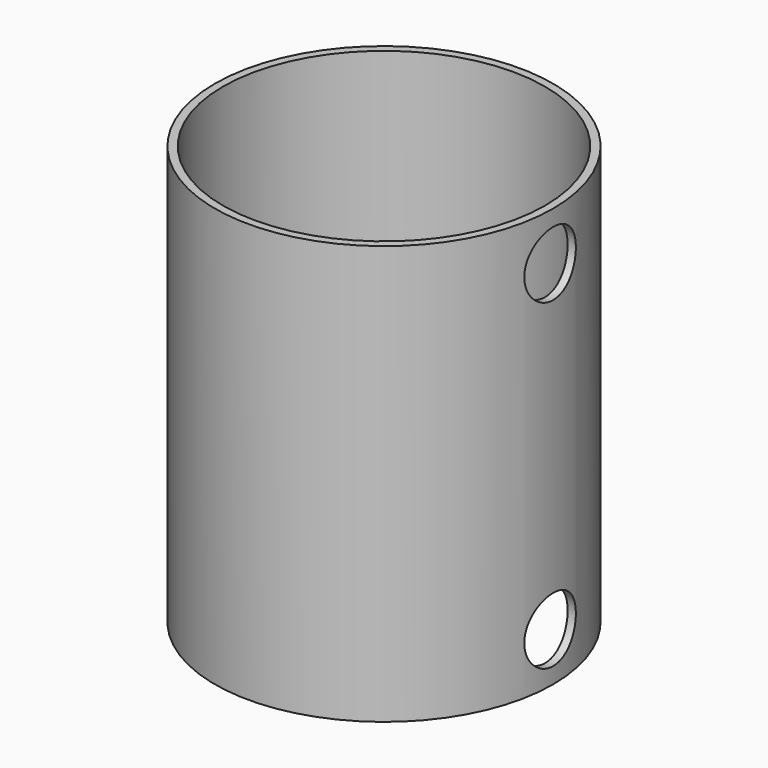
from build123d import *

# Parameters (mm, degrees)
F0_R     = 133.35
F0_R_2   = 127
F1_DEPTH = 330.2
F3_R     = 25.4
F4_DEPTH = 508


with BuildPart() as f1:
    # F0 (on Top) → F1 (new body)
    with BuildSketch(Plane.XY):
        Circle(F0_R)
        Circle(F0_R_2, mode=Mode.SUBTRACT)
    extrude(amount=F1_DEPTH)

    # F3 (on Right) → F4 (cut)
    with BuildSketch(Plane.YZ):
        with Locations((0, 38.1)):
            Circle(F3_R)
        with Locations((0, 292.1)):
            Circle(F3_R)
    extrude(amount=F4_DEPTH, mode=Mode.SUBTRACT)


solid = f1.part
